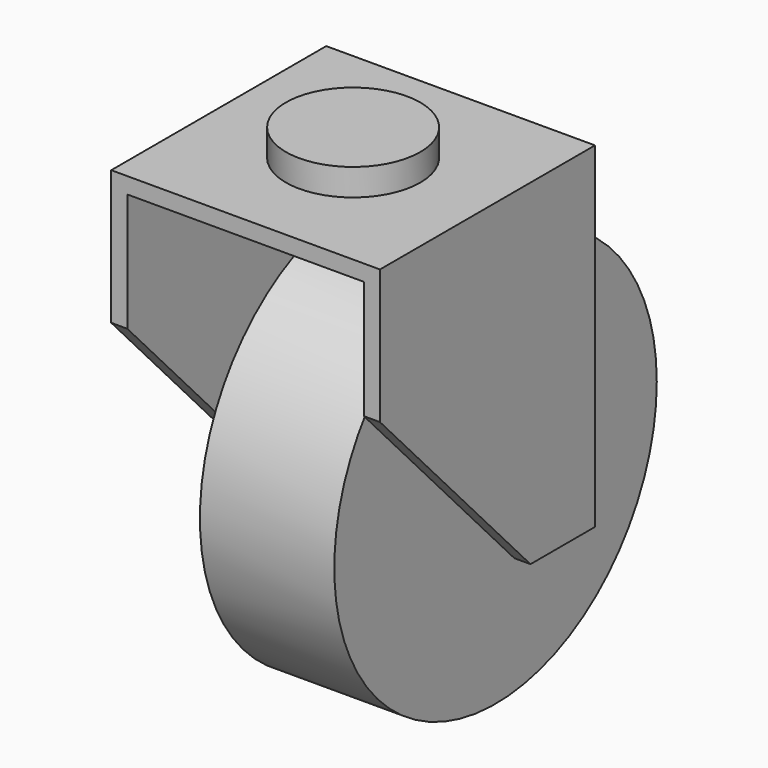
from build123d import *

# Parameters (mm, degrees)
F1_DEPTH = 50
F2_W     = 88
F2_H     = 119
F3_DEPTH = 100.001
F4_R     = 5
F5_DEPTH = 88
F6_R     = 25
F7_DEPTH = 10
F8_R     = 75
F9_DEPTH = 25


with BuildPart() as f1:
    # F0 (on Right) → F1 (new body, symmetric)
    with BuildSketch(Plane.YZ):
        Polygon((0, -125), (0, 0), (-100, 0), (-100, -50), (-30, -125), align=None)
    extrude(amount=F1_DEPTH, both=True)

    # F2 (on face) → F3 (cut, through all)
    with BuildSketch(Plane(origin=(0, 0, 0), x_dir=(-1, 0, 0), z_dir=(0, 1, 0))):
        with Locations((0, -65.5)):
            Rectangle(F2_W, F2_H)
    extrude(amount=-F3_DEPTH, mode=Mode.SUBTRACT)

    # F4 (on face) → F5 (join, through all)
    with BuildSketch(Plane(origin=(44, 0, 0), x_dir=(0, -1, 0), z_dir=(-1, 0, 0))):
        with Locations((15, -110)):
            Circle(F4_R)
    extrude(amount=F5_DEPTH)

    # F6 (on face) → F7 (join)
    with BuildSketch(Plane.XY):
        with Locations((0, -50)):
            Circle(F6_R)
    extrude(amount=F7_DEPTH)

    # F8 (on Right) → F9 (join, symmetric)
    with BuildSketch(Plane.YZ):
        with Locations((-15, -110)):
            Circle(F8_R)
    extrude(amount=F9_DEPTH, both=True)


solid = f1.part
